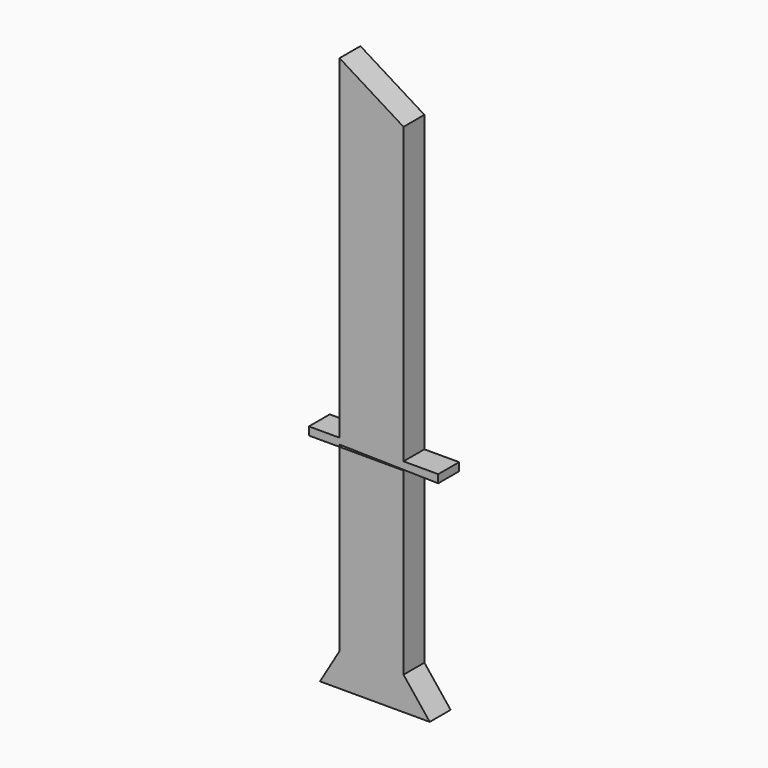
from build123d import *

# Parameters (mm, degrees)
F0_W     = 62.252599746
F0_H     = 174.907522276
F1_DEPTH = 12.7
F2_DEPTH = 12.7


with BuildPart() as f1:
    # F0 (on Front) → F1 (new body, symmetric)
    with BuildSketch(Plane.XZ):
        with Locations((31.126299873, -89.4837295637)):
            Rectangle(F0_W, F0_H)
    extrude(amount=F1_DEPTH, both=True)

    # F0 (on Front) → F2 (join, symmetric)
    with BuildSketch(Plane.XZ):
        Polygon((62.252599746, -176.9374907017), (0, -176.9374907017), (-19.0012454987, -209.0791165829), (87.7887457609, -209.0791165829), align=None)
    extrude(amount=F2_DEPTH, both=True)


with BuildPart() as f1b:
    # F0 (on Front) → F1, piece 2 (new body, symmetric)
    with BuildSketch(Plane.XZ):
        Polygon((0, 331.0042023659), (0, 5.8361589909), (62.252599746, 5.8361589909), (62.252599746, 292.3958003521), align=None)
        Polygon((78.2806500793, 5.8361589909), (62.252599746, 5.8361589909), (62.252599746, -1.3158836415), (78.2806500793, -1.6546815283), align=None)
        Polygon((96.0349440575, 5.8361589909), (78.2806500793, 5.8361589909), (78.2806500793, -1.6546815283), (96.0349440575, -2.0299684256), align=None)
        Polygon((0, 5.8361589909), (-29.8151597381, 5.8361589909), (-29.8151597381, -2.0299684256), (0, -2.0299684256), (0, 0), (62.252599746, -1.3158836415), (62.252599746, 5.8361589909), align=None)
    extrude(amount=F1_DEPTH, both=True)


solid = Compound([f1.part, f1b.part])
